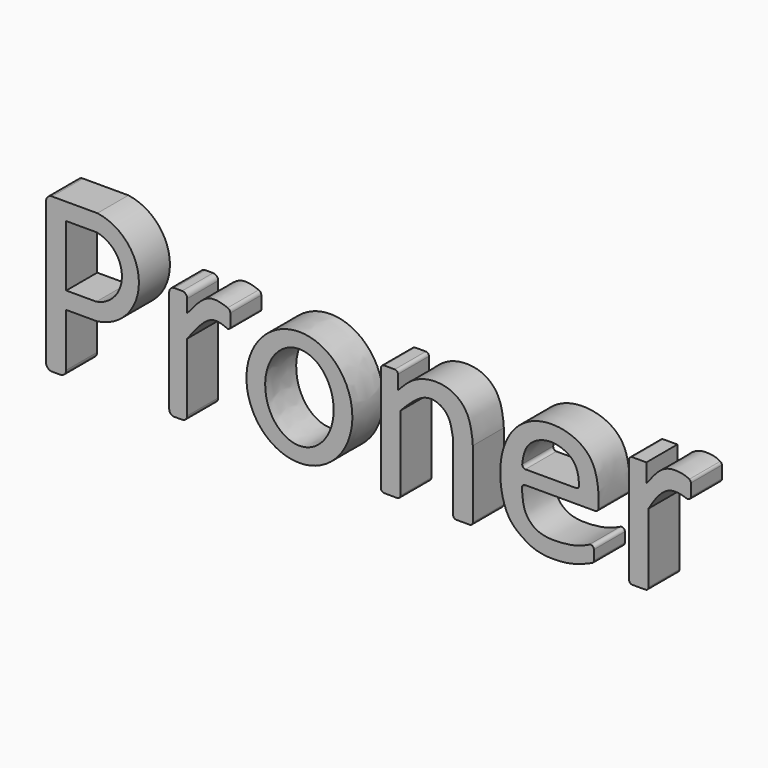
from build123d import *

# Parameters (mm, degrees)
F1_DEPTH = 5


with BuildPart() as f1:
    # F0 (on Front) → F1 (new body)
    with BuildSketch(Plane.XZ):
        with BuildLine():
            ThreePointArc((-57.3708973825, -37.9473655111), (-57.1472743217, -38.4872393373), (-56.6074004954, -38.7108623981))
            Line((-56.6074004954, -38.7108623981), (-55.5357137137, -38.7108623981))
            ThreePointArc((-55.5357137137, -38.7108623981), (-54.9958398875, -38.4872393373), (-54.7722168267, -37.9473655111))
            Line((-54.7722168267, -37.9473655111), (-54.7722168267, -31.1073120683))
            Line((-54.7722168267, -31.1073120683), (-50.7939904928, -31.1073120683))
            ThreePointArc((-50.7939904928, -31.1073120683), (-45.3972658857, -24.9810454764), (-50.7539313278, -18.8197214156))
            Line((-50.7539313278, -18.8197214156), (-54.7722168267, -18.8197214156))
            Line((-54.7722168267, -18.8197214156), (-56.6074004954, -18.8197214156))
            ThreePointArc((-56.6074004954, -18.8197214156), (-57.1472743217, -19.0433444764), (-57.3708973825, -19.5832183027))
            Line((-57.3708973825, -19.5832183027), (-57.3708973825, -37.9473655111))
        make_face()
        with BuildLine():
            Line((-50.8893977888, -28.9073120803), (-54.7722168267, -28.9073120803))
            Line((-54.7722168267, -28.9073120803), (-54.7722168267, -21.0197214037))
            Line((-54.7722168267, -21.0197214037), (-50.8600889766, -21.0197214037))
            ThreePointArc((-50.8600889766, -21.0197214037), (-47.5866158875, -24.975734809), (-50.8893977888, -28.9073120803))
        make_face(mode=Mode.SUBTRACT)
    extrude(amount=F1_DEPTH)


with BuildPart() as f1b:
    # F0 (on Front) → F1, piece 2 (new body)
    with BuildSketch(Plane.XZ):
        with BuildLine():
            ThreePointArc((-41.4881147444, -38.0516472624), (-41.2950351014, -38.5177827551), (-40.8288996087, -38.7108623981))
            Line((-40.8288996087, -38.7108623981), (-39.8272190823, -38.7108623981))
            ThreePointArc((-39.8272190823, -38.7108623981), (-39.3610835895, -38.5177827551), (-39.1680039465, -38.0516472624))
            Line((-39.1680039465, -38.0516472624), (-39.1680039465, -29.2944982648))
            add(Edge.make_bspline(
                [(-39.1680039465, -29.2944982648), (-38.0987558941, -27.8728468146), (-36.3912511699, -25.5923184323), (-34.6675477543, -26.1687633921), (-34.0280171963, -26.4561341571)],
                knots=[0, 0, 0, 0, 0.5778690025, 0.9244045996, 0.9244045996, 0.9244045996, 0.9244045996], degree=3))
            ThreePointArc((-34.0280171963, -26.4561341571), (-33.745793127, -26.43465328), (-33.6105246097, -26.1860284993))
            Line((-33.6105246097, -26.1860284993), (-33.6105246097, -24.5813801146))
            ThreePointArc((-33.6105246097, -24.5813801146), (-33.7037707797, -24.2856056732), (-33.9497898688, -24.0967883642))
            add(Edge.make_bspline(
                [(-39.1680039465, -26.407847181), (-38.2340937948, -25.2488408954), (-36.6156261235, -23.2489376965), (-34.7511420572, -23.8049955085), (-33.9497898688, -24.0967883642)],
                knots=[0, 0, 0, 0, 0.5454681083, 0.9439000882, 0.9439000882, 0.9439000882, 0.9439000882], degree=3))
            Line((-39.1680039465, -26.407847181), (-39.1680039465, -24.7469496562))
            ThreePointArc((-39.1680039465, -24.7469496562), (-39.3610835895, -24.2808141634), (-39.8272190823, -24.0877345204))
            Line((-39.8272190823, -24.0877345204), (-40.8288996087, -24.0877345204))
            ThreePointArc((-40.8288996087, -24.0877345204), (-41.2950351014, -24.2808141634), (-41.4881147444, -24.7469496562))
            Line((-41.4881147444, -24.7469496562), (-41.4881147444, -38.0516472624))
        make_face()
    extrude(amount=F1_DEPTH)


with BuildPart() as f1c:
    # F0 (on Front) → F1, piece 3 (new body)
    with BuildSketch(Plane.XZ):
        with BuildLine():
            add(Edge.make_bspline(
                [(-17.8701467812, -31.2594193965), (-17.8701467812, -18.3712887289), (-28.1127612107, -24.8153540627), (-38.3553756401, -31.2594193965), (-28.1127612107, -37.7034847303), (-17.8701467812, -44.1475500641), (-17.8701467812, -31.2594193965)],
                knots=[4.7123889804, 4.7123889804, 4.7123889804, 6.8067840828, 6.8067840828, 8.9011791852, 8.9011791852, 10.9955742876, 10.9955742876, 10.9955742876], degree=2, weights=[1, 0.5, 1, 0.5, 1, 0.5, 1]))
        make_face()
        with BuildLine():
            add(Edge.make_bspline(
                [(-24.6985564008, -36.7493685335), (-17.0478540379, -36.7493685335), (-20.8732052194, -28.514444828), (-24.6985564008, -20.2795211226), (-28.5239075823, -28.514444828), (-32.3492587637, -36.7493685335), (-24.6985564008, -36.7493685335)],
                knots=[0, 0, 0, 2.0943951024, 2.0943951024, 4.1887902048, 4.1887902048, 6.2831853072, 6.2831853072, 6.2831853072], degree=2, weights=[1, 0.5, 1, 0.5, 1, 0.5, 1]))
        make_face(mode=Mode.SUBTRACT)
    extrude(amount=F1_DEPTH)


with BuildPart() as f1d:
    # F0 (on Front) → F1, piece 4 (new body)
    with BuildSketch(Plane.XZ):
        with BuildLine():
            Line((-14.1754979268, -24.4900242861), (-14.1754979268, -38.1656015788))
            ThreePointArc((-14.1754979268, -38.1656015788), (-14.0548456383, -38.4568819699), (-13.7635652472, -38.5775342584))
            Line((-13.7635652472, -38.5775342584), (-12.0861794304, -38.5775342584))
            ThreePointArc((-12.0861794304, -38.5775342584), (-11.7948990392, -38.4568819699), (-11.6742467508, -38.1656015788))
            Line((-11.6742467508, -38.1656015788), (-11.6742467508, -28.5334456712))
            add(Edge.make_bspline(
                [(-4.8739695922, -29.4714141637), (-4.9994554012, -28.7302729222), (-5.2344207875, -27.3425260578), (-6.4646368475, -26.0810983197), (-8.3178840867, -25.7038084645), (-10.157481335, -26.933236038), (-11.1632684135, -27.9943560736), (-11.6742467508, -28.5334456712)],
                knots=[0, 0, 0, 0, 0.2093801261, 0.3920529545, 0.5787116566, 0.7859693947, 1, 1, 1, 1], degree=3))
            Line((-4.8739695922, -29.4714141637), (-4.8739695922, -38.1656015788))
            ThreePointArc((-4.8739695922, -38.1656015788), (-4.7533173037, -38.4568819699), (-4.4620369126, -38.5775342584))
            Line((-4.4620369126, -38.5775342584), (-2.7455695409, -38.5775342584))
            ThreePointArc((-2.7455695409, -38.5775342584), (-2.4542891498, -38.4568819699), (-2.3336368613, -38.1656015788))
            Line((-2.3336368613, -38.1656015788), (-2.3336368613, -29.4714141637))
            add(Edge.make_bspline(
                [(-11.9869038463, -26.3057686388), (-11.4349680147, -25.7169195681), (-10.383596865, -24.5952331525), (-8.5366345888, -23.8380413448), (-6.8699145349, -23.6851887001), (-5.0537828237, -24.0269315175), (-3.5572021599, -25.1399752972), (-2.7143793695, -26.6641212737), (-2.3917433236, -28.5434526787), (-2.3505150533, -29.2018690649), (-2.3336368613, -29.4714141637)],
                knots=[0, 0, 0, 0, 0.1456254693, 0.2773989445, 0.399369542, 0.5268635768, 0.6539506785, 0.7796054064, 0.9097739914, 1, 1, 1, 1], degree=3))
            Line((-11.9869038463, -26.3057686388), (-11.9869038463, -24.4900242861))
            ThreePointArc((-11.9869038463, -24.4900242861), (-12.1075561347, -24.198743895), (-12.3988365259, -24.0780916065))
            Line((-12.3988365259, -24.0780916065), (-13.7635652472, -24.0780916065))
            ThreePointArc((-13.7635652472, -24.0780916065), (-14.0548456383, -24.198743895), (-14.1754979268, -24.4900242861))
        make_face()
    extrude(amount=F1_DEPTH)


with BuildPart() as f1e:
    # F0 (on Front) → F1, piece 5 (new body)
    with BuildSketch(Plane.XZ):
        with BuildLine():
            ThreePointArc((4.0050182512, -32.1753757062), (4.1189267254, -31.8724412312), (4.416551345, -31.7453034222))
            Line((4.416551345, -31.7453034222), (13.445799094, -31.7453034222))
            ThreePointArc((13.445799094, -31.7453034222), (13.7296665689, -31.6318800209), (13.8572113429, -31.3540708383))
            add(Edge.make_bspline(
                [(13.8572113429, -31.3540708383), (13.8916748851, -30.6691115213), (13.9386361123, -28.9701238336), (13.1132151668, -25.2272473933), (8.8183967179, -23.3070957763), (4.3329861411, -24.1178454973), (1.6377476442, -27.3786409834), (0.9197573058, -31.6771530912), (1.8692719943, -36.0651649271), (3.9924985766, -37.8284389041), (6.1647334458, -39.0463171662), (10.1198804911, -39.0188526834), (12.1313817105, -38.1889492423), (13.0413788944, -37.793740922)],
                knots=[0.0124038547, 0.0124038547, 0.0124038547, 0.0124038547, 0.077356865, 0.1697957444, 0.2694664205, 0.3692593406, 0.4644337989, 0.5646724831, 0.6645913193, 0.7418101724, 0.8166297501, 0.9118494682, 0.9926573964, 0.9926573964, 0.9926573964, 0.9926573964], degree=3))
            ThreePointArc((13.0413788944, -37.793740922), (13.2217297142, -37.6418373064), (13.2892178372, -37.4159026258))
            Line((13.2892178372, -37.4159026258), (13.2892178372, -36.1823846709))
            ThreePointArc((13.2892178372, -36.1823846709), (13.0920953905, -35.830894847), (12.6893863479, -35.8158023885))
            add(Edge.make_bspline(
                [(12.6893863479, -35.8158023885), (12.3555910297, -35.986895608), (11.3928463144, -36.4375328647), (9.3909894908, -36.8297985887), (6.1265286013, -36.8881017657), (4.2003350261, -34.9845313228), (4.0464390456, -33.1150890124), (4.0050182512, -32.1753757062)],
                knots=[0.0637612716, 0.0637612716, 0.0637612716, 0.0637612716, 0.1690943703, 0.3598949991, 0.5819543, 0.7797569846, 0.9709053888, 0.9709053888, 0.9709053888, 0.9709053888], degree=3))
        make_face()
        with BuildLine():
            Line((10.9733633066, -29.9475286156), (4.4491132765, -29.9475286156))
            ThreePointArc((4.4491132765, -29.9475286156), (4.1407928852, -29.8087754902), (4.0401783645, -29.4859897847))
            add(Edge.make_bspline(
                [(11.3842104047, -29.5057095759), (11.3183646501, -28.6005295177), (11.0459944465, -26.6463060455), (7.5482890056, -25.2302755334), (4.4818647364, -26.8176958784), (4.1423456713, -28.6437599911), (4.0401783645, -29.4859897847)],
                knots=[0.0342995012, 0.0342995012, 0.0342995012, 0.0342995012, 0.2458420787, 0.5060885268, 0.7584380887, 0.9628040322, 0.9628040322, 0.9628040322, 0.9628040322], degree=3))
            ThreePointArc((11.3842104047, -29.5057095759), (11.2750251213, -29.816110966), (10.9733633066, -29.9475286156))
        make_face(mode=Mode.SUBTRACT)
    extrude(amount=F1_DEPTH)


with BuildPart() as f1f:
    # F0 (on Front) → F1, piece 6 (new body)
    with BuildSketch(Plane.XZ):
        with BuildLine():
            Line((17.8227368742, -24.4971544917), (17.8227368742, -38.1656015788))
            ThreePointArc((17.8227368742, -38.1656015788), (17.9433891627, -38.4568819699), (18.2346695538, -38.5775342584))
            Line((18.2346695538, -38.5775342584), (19.9120553706, -38.5775342584))
            ThreePointArc((19.9120553706, -38.5775342584), (20.2033357618, -38.4568819699), (20.3239880502, -38.1656015788))
            Line((20.3239880502, -38.1656015788), (20.3239880502, -29.2440522462))
            add(Edge.make_bspline(
                [(25.2448575727, -26.4907686655), (25.0605237593, -26.4248620441), (24.430858086, -26.2249022771), (23.0420140992, -26.0600782984), (21.5273213385, -27.2905724247), (20.7412203931, -28.5667212269), (20.3239880502, -29.2440522462)],
                knots=[0.1064073707, 0.1064073707, 0.1064073707, 0.1064073707, 0.2103131098, 0.4474899525, 0.7067487796, 1, 1, 1, 1], degree=3))
            ThreePointArc((25.2448575727, -26.4907686655), (25.6207759226, -26.4396450625), (25.7954746485, -26.102883153))
            Line((25.7954746485, -26.102883153), (25.7954746485, -24.5546942438))
            ThreePointArc((25.7954746485, -24.5546942438), (25.7395660464, -24.3474856804), (25.5870163694, -24.1965229149))
            add(Edge.make_bspline(
                [(20.0504139066, -26.4692269266), (20.7459490575, -25.5640268214), (21.9505430781, -23.9963150634), (23.7117938608, -23.6906900416), (24.975292694, -23.8793955565), (25.4389668875, -24.1124171332), (25.5870163694, -24.1965229149)],
                knots=[0, 0, 0, 0, 0.3455001076, 0.5983699936, 0.8258907133, 0.9435551019, 0.9435551019, 0.9435551019, 0.9435551019], degree=3))
            Line((20.0504139066, -26.4692269266), (20.0504139066, -24.0852218121))
            Line((20.0504139066, -24.0852218121), (18.2346695538, -24.0852218121))
            ThreePointArc((18.2346695538, -24.0852218121), (17.9433891627, -24.2058741006), (17.8227368742, -24.4971544917))
        make_face()
    extrude(amount=F1_DEPTH)


solid = Compound([f1.part, f1b.part, f1c.part, f1d.part, f1e.part, f1f.part])
